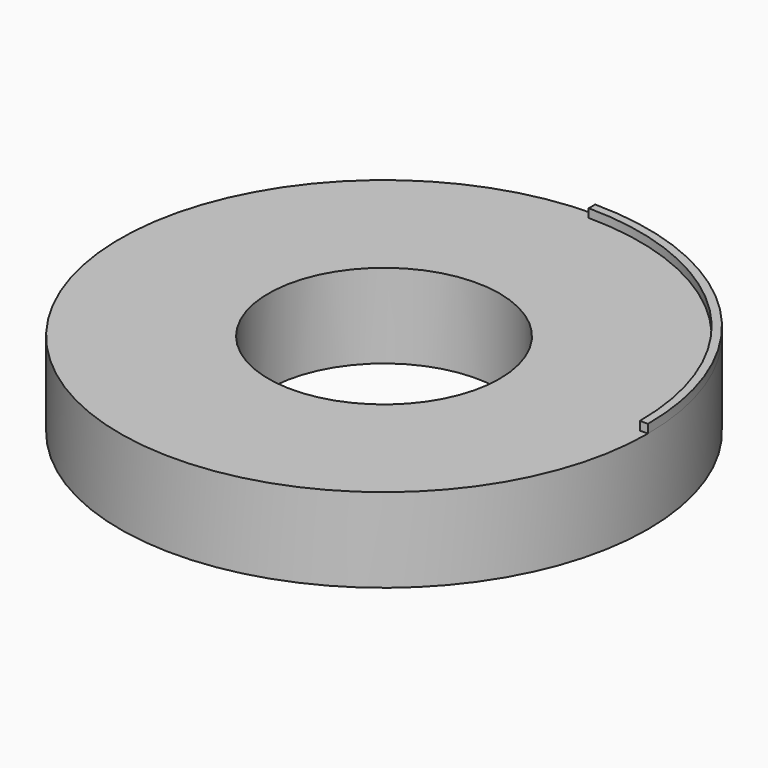
from build123d import *

# Parameters (mm, degrees)
F0_R     = 39.00226
F0_R_2   = 17.07871
F1_DEPTH = 12.446
F4_DEPTH = 1.27


with BuildPart() as f1:
    # F0 (on Top) → F1 (new body)
    with BuildSketch(Plane.XY):
        Circle(F0_R)
        Circle(F0_R_2, mode=Mode.SUBTRACT)
    extrude(amount=F1_DEPTH)

    # F3 (on face) → F4 (join)
    with BuildSketch(Plane.XY.offset(12.446)):
        with BuildLine():
            ThreePointArc((0, 37.810975), (26.736397, 26.736397), (37.810975, 0))
            Line((37.810975, 0), (39.00226, 0))
            ThreePointArc((39.00226, 0), (27.578762, 27.578762), (0, 39.00226))
            Line((0, 39.00226), (0, 37.810975))
        make_face()
    extrude(amount=F4_DEPTH)


solid = f1.part
